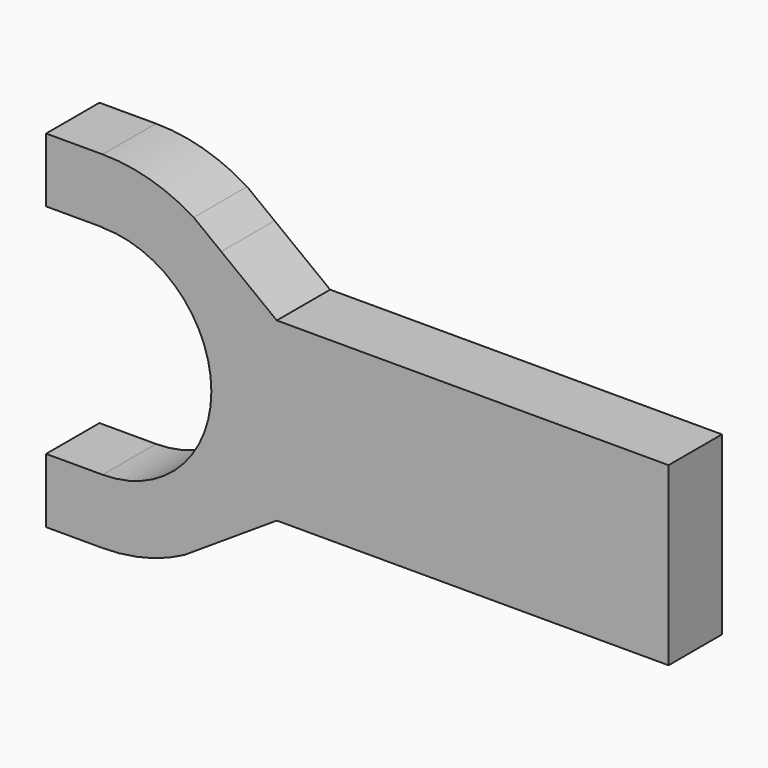
from build123d import *

# Parameters (mm, degrees)
F1_DEPTH = 15


with BuildPart() as f1:
    # F0 (on Front) → F1 (new body)
    with BuildSketch(Plane.XZ):
        with BuildLine():
            ThreePointArc((0, 24.456728), (24.456728, 0), (0, -24.456728))
            Line((0, -24.456728), (-12.714662, -24.456728))
            Line((-12.714662, -24.456728), (-12.714662, -38.972821))
            Line((-12.714662, -38.972821), (0, -38.972821))
            ThreePointArc((0, -38.972821), (9.46222, -37.806708), (18.358199, -34.378152))
            Line((18.358199, -34.378152), (24.070533, -30.651105))
            Line((24.070533, -30.651105), (39.177055, -20.794763))
            Line((39.177055, -20.794763), (127.285338, -20.794763))
            Line((127.285338, -20.794763), (127.285338, 18.832884))
            Line((127.285338, 18.832884), (39.177055, 18.832884))
            Line((39.177055, 18.832884), (26.68286, 28.406087))
            Line((26.68286, 28.406087), (20.485604, 33.154499))
            ThreePointArc((20.485604, 33.154499), (10.64792, 37.490033), (0, 38.972821))
            Line((0, 38.972821), (-12.714662, 38.972821))
            Line((-12.714662, 38.972821), (-12.714662, 24.532204))
            Line((-12.714662, 24.532204), (0, 24.532204))
            Line((0, 24.532204), (0, 24.456728))
        make_face()
    extrude(amount=F1_DEPTH)


solid = f1.part
